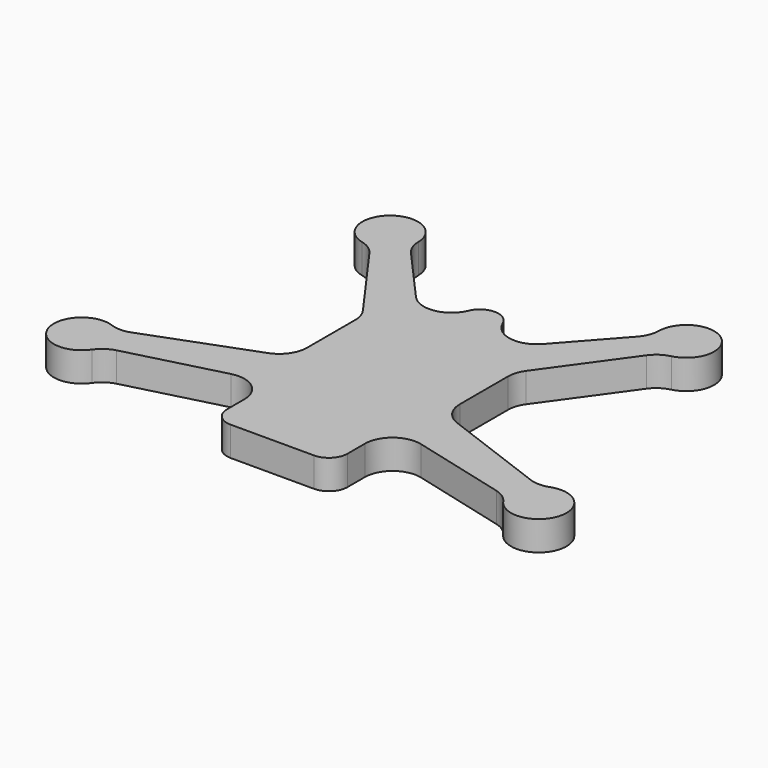
from build123d import *

# Parameters (mm, degrees)
F2_DEPTH = 6.35


with BuildPart() as f2:
    # F1 (on Top) → F2 (new body)
    with BuildSketch(Plane.XY):
        with BuildLine():
            ThreePointArc((47.283265, -13.669074), (45.194386, -14.036989), (43.108014, -13.655113))
            Line((43.108014, -13.655113), (20.393567, -5.138613))
            ThreePointArc((20.393567, -5.138613), (17.56854, -2.938226), (16.5, 0.479478))
            Line((16.5, 0.479478), (16.5, 13.460047))
            ThreePointArc((16.5, 13.460047), (16.788519, 15.298249), (17.626328, 16.959665))
            Line((17.626328, 16.959665), (29.927318, 34.090392))
            ThreePointArc((29.927318, 34.090392), (31.449495, 35.567468), (33.390495, 36.422627))
            ThreePointArc((33.390495, 36.422627), (35.72989, 46.938317), (25.980839, 42.354813))
            ThreePointArc((25.980839, 42.354813), (25.571083, 40.273737), (24.462842, 38.465263))
            Line((24.462842, 38.465263), (13.702171, 26.379615))
            ThreePointArc((13.702171, 26.379615), (8.23506, 24.451061), (3.688403, 28.0478))
            ThreePointArc((3.688403, 28.0478), (2.214588, 29.831006), (0, 30.5))
            Line((0, 30.5), (0, -29.5))
            Line((0, -29.5), (9, -29.5))
            ThreePointArc((9, -29.5), (11.828427, -28.328427), (13, -25.5))
            Line((13, -25.5), (13, -20.817605))
            ThreePointArc((13, -20.817605), (15.328887, -16.071772), (20.507644, -15.010109))
            Line((20.507644, -15.010109), (40.996909, -20.329185))
            ThreePointArc((40.996909, -20.329185), (42.923365, -21.216624), (44.420674, -22.718903))
            ThreePointArc((44.420674, -22.718903), (55.072716, -21.110643), (47.283265, -13.669074))
        make_face()
    extrude(amount=F2_DEPTH)

    # F3: F2 across plane


with BuildPart() as f2_1:
    add(f2.part)
    add(f2.part.mirror(Plane.YZ))


solid = f2_1.part
